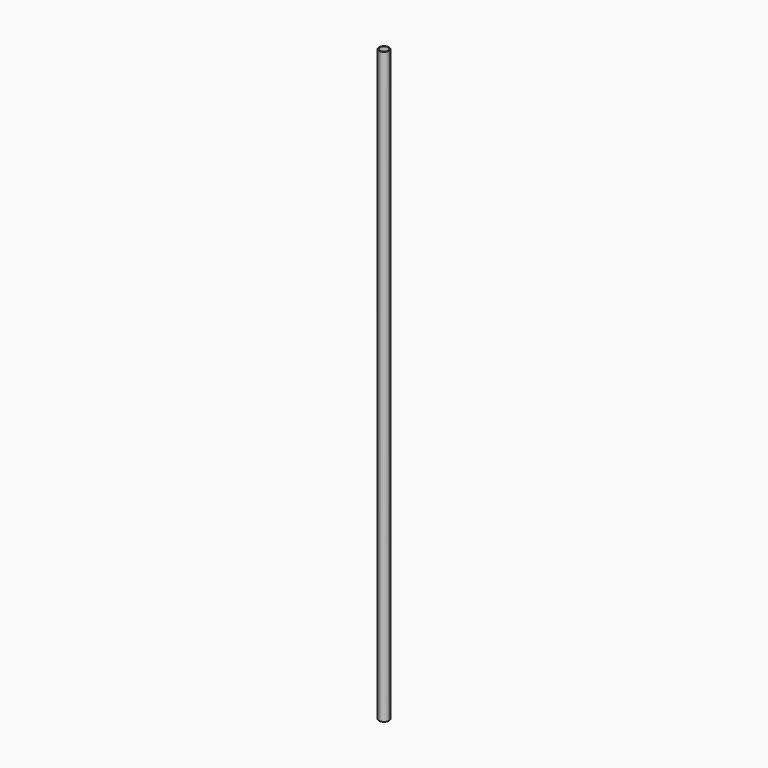
from build123d import *

# Parameters (mm, degrees)
F4_DEPTH = 120


with BuildPart() as f4:
    # F3 (on offset) → F4 (new body)
    with BuildSketch(Plane.XY.offset(10)):
        with BuildLine():
            ThreePointArc((1, 20), (-0.707107, 20.707107), (0, 19))
            ThreePointArc((0, 19), (0.707107, 19.292893), (1, 20))
        make_face()
        with BuildLine():
            ThreePointArc((0.9, 20), (0.636396, 19.363604), (0, 19.1))
            ThreePointArc((0, 19.1), (-0.636396, 20.636396), (0.9, 20))
        make_face(mode=Mode.SUBTRACT)
    extrude(amount=-F4_DEPTH)


solid = f4.part
